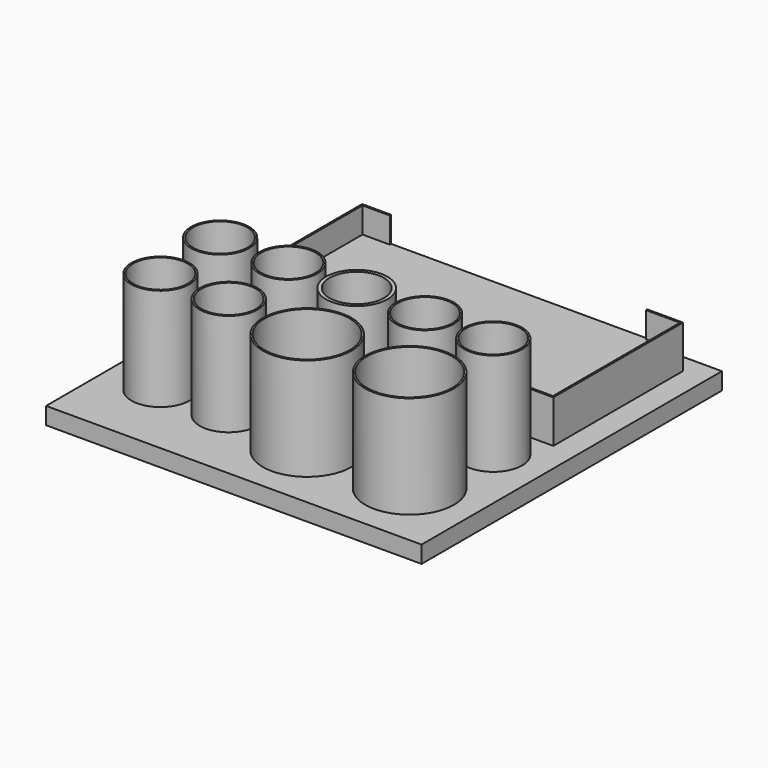
from build123d import *

# Parameters (mm, degrees)
SKETCH_W          = 220
SKETCH_H          = 220
PAD_DEPTH         = 10
BOX_W             = 188
BOX_H             = 95
BOX_DEPTH         = 25
BOX001_W          = 186
BOX001_H          = 93
BOX001_DEPTH      = 20
BOX002_W          = 150
BOX002_H          = 95
BOX002_DEPTH      = 20
CYLINDER_R        = 18
CYLINDER_DEPTH    = 60
CYLINDER001_R     = 17
CYLINDER001_DEPTH = 60
CYLINDER002_R     = 16
CYLINDER002_DEPTH = 60
CYLINDER003_R     = 17
CYLINDER003_DEPTH = 60
CYLINDER004_R     = 16
CYLINDER004_DEPTH = 60
CYLINDER005_R     = 17
CYLINDER005_DEPTH = 60
CYLINDER006_R     = 16
CYLINDER006_DEPTH = 60
CYLINDER007_R     = 17
CYLINDER007_DEPTH = 60
CYLINDER008_R     = 16
CYLINDER008_DEPTH = 60
CYLINDER009_R     = 16
CYLINDER009_DEPTH = 60
CYLINDER010_R     = 17
CYLINDER010_DEPTH = 60
CYLINDER011_R     = 16
CYLINDER011_DEPTH = 60
CYLINDER012_R     = 17
CYLINDER012_DEPTH = 60
CYLINDER013_R     = 16
CYLINDER013_DEPTH = 60
CYLINDER014_R     = 26
CYLINDER014_DEPTH = 60
CYLINDER015_R     = 25
CYLINDER015_DEPTH = 60
CYLINDER016_R     = 26
CYLINDER016_DEPTH = 60
CYLINDER017_R     = 25
CYLINDER017_DEPTH = 60


with BuildPart() as part:
    # Sketch → Pad (new body)
    with BuildSketch(Plane.XY):
        Rectangle(SKETCH_W, SKETCH_H)
    extrude(amount=PAD_DEPTH)

    # Box → Box (join)
    with BuildSketch(Plane(origin=(-92, 4, 10), x_dir=(1, 0, 0), z_dir=(0, 0, 1))):
        with Locations((94, 47.5)):
            Rectangle(BOX_W, BOX_H)
    extrude(amount=BOX_DEPTH)

    # Box001 → Box001 (cut)
    with BuildSketch(Plane(origin=(-91, 5, 20), x_dir=(1, 0, 0), z_dir=(0, 0, 1))):
        with Locations((93, 46.5)):
            Rectangle(BOX001_W, BOX001_H)
    extrude(amount=BOX001_DEPTH, mode=Mode.SUBTRACT)

    # Box002 → Box002 (cut)
    with BuildSketch(Plane(origin=(-75, 4, 20), x_dir=(1, 0, 0), z_dir=(0, 0, 1))):
        with Locations((75, 47.5)):
            Rectangle(BOX002_W, BOX002_H)
    extrude(amount=BOX002_DEPTH, mode=Mode.SUBTRACT)

    # Cylinder → Cylinder (join)
    with BuildSketch(Plane(origin=(0, -20, 10), x_dir=(1, 0, 0), z_dir=(0, 0, 1))):
        Circle(CYLINDER_R)
    extrude(amount=CYLINDER_DEPTH)

    # Cylinder001 → Cylinder001 (join)
    with BuildSketch(Plane(origin=(40, -20, 10), x_dir=(1, 0, 0), z_dir=(0, 0, 1))):
        Circle(CYLINDER001_R)
    extrude(amount=CYLINDER001_DEPTH)

    # Cylinder002 → Cylinder002 (cut)
    with BuildSketch(Plane(origin=(40, -20, 10), x_dir=(1, 0, 0), z_dir=(0, 0, 1))):
        Circle(CYLINDER002_R)
    extrude(amount=CYLINDER002_DEPTH, mode=Mode.SUBTRACT)

    # Cylinder003 → Cylinder003 (join)
    with BuildSketch(Plane(origin=(80, -20, 10), x_dir=(1, 0, 0), z_dir=(0, 0, 1))):
        Circle(CYLINDER003_R)
    extrude(amount=CYLINDER003_DEPTH)

    # Cylinder004 → Cylinder004 (cut)
    with BuildSketch(Plane(origin=(80, -20, 10), x_dir=(1, 0, 0), z_dir=(0, 0, 1))):
        Circle(CYLINDER004_R)
    extrude(amount=CYLINDER004_DEPTH, mode=Mode.SUBTRACT)

    # Cylinder005 → Cylinder005 (join)
    with BuildSketch(Plane(origin=(-40, -20, 10), x_dir=(1, 0, 0), z_dir=(0, 0, 1))):
        Circle(CYLINDER005_R)
    extrude(amount=CYLINDER005_DEPTH)

    # Cylinder006 → Cylinder006 (cut)
    with BuildSketch(Plane(origin=(-40, -20, 10), x_dir=(1, 0, 0), z_dir=(0, 0, 1))):
        Circle(CYLINDER006_R)
    extrude(amount=CYLINDER006_DEPTH, mode=Mode.SUBTRACT)

    # Cylinder007 → Cylinder007 (join)
    with BuildSketch(Plane(origin=(-80, -20, 10), x_dir=(1, 0, 0), z_dir=(0, 0, 1))):
        Circle(CYLINDER007_R)
    extrude(amount=CYLINDER007_DEPTH)

    # Cylinder008 → Cylinder008 (cut)
    with BuildSketch(Plane(origin=(-80, -20, 10), x_dir=(1, 0, 0), z_dir=(0, 0, 1))):
        Circle(CYLINDER008_R)
    extrude(amount=CYLINDER008_DEPTH, mode=Mode.SUBTRACT)

    # Cylinder009 → Cylinder009 (cut)
    with BuildSketch(Plane(origin=(0, -20, 10), x_dir=(1, 0, 0), z_dir=(0, 0, 1))):
        Circle(CYLINDER009_R)
    extrude(amount=CYLINDER009_DEPTH, mode=Mode.SUBTRACT)

    # Cylinder010 → Cylinder010 (join)
    with BuildSketch(Plane(origin=(-79, -65, 10), x_dir=(1, 0, 0), z_dir=(0, 0, 1))):
        Circle(CYLINDER010_R)
    extrude(amount=CYLINDER010_DEPTH)

    # Cylinder011 → Cylinder011 (cut)
    with BuildSketch(Plane(origin=(-79, -65, 10), x_dir=(1, 0, 0), z_dir=(0, 0, 1))):
        Circle(CYLINDER011_R)
    extrude(amount=CYLINDER011_DEPTH, mode=Mode.SUBTRACT)

    # Cylinder012 → Cylinder012 (join)
    with BuildSketch(Plane(origin=(-39, -65, 10), x_dir=(1, 0, 0), z_dir=(0, 0, 1))):
        Circle(CYLINDER012_R)
    extrude(amount=CYLINDER012_DEPTH)

    # Cylinder013 → Cylinder013 (cut)
    with BuildSketch(Plane(origin=(-39, -65, 10), x_dir=(1, 0, 0), z_dir=(0, 0, 1))):
        Circle(CYLINDER013_R)
    extrude(amount=CYLINDER013_DEPTH, mode=Mode.SUBTRACT)

    # Cylinder014 → Cylinder014 (join)
    with BuildSketch(Plane(origin=(11, -70, 10), x_dir=(1, 0, 0), z_dir=(0, 0, 1))):
        Circle(CYLINDER014_R)
    extrude(amount=CYLINDER014_DEPTH)

    # Cylinder015 → Cylinder015 (cut)
    with BuildSketch(Plane(origin=(11, -70, 10), x_dir=(1, 0, 0), z_dir=(0, 0, 1))):
        Circle(CYLINDER015_R)
    extrude(amount=CYLINDER015_DEPTH, mode=Mode.SUBTRACT)

    # Cylinder016 → Cylinder016 (join)
    with BuildSketch(Plane(origin=(71, -70, 10), x_dir=(1, 0, 0), z_dir=(0, 0, 1))):
        Circle(CYLINDER016_R)
    extrude(amount=CYLINDER016_DEPTH)

    # Cylinder017 → Cylinder017 (cut)
    with BuildSketch(Plane(origin=(71, -70, 10), x_dir=(1, 0, 0), z_dir=(0, 0, 1))):
        Circle(CYLINDER017_R)
    extrude(amount=CYLINDER017_DEPTH, mode=Mode.SUBTRACT)


solid = part.part
